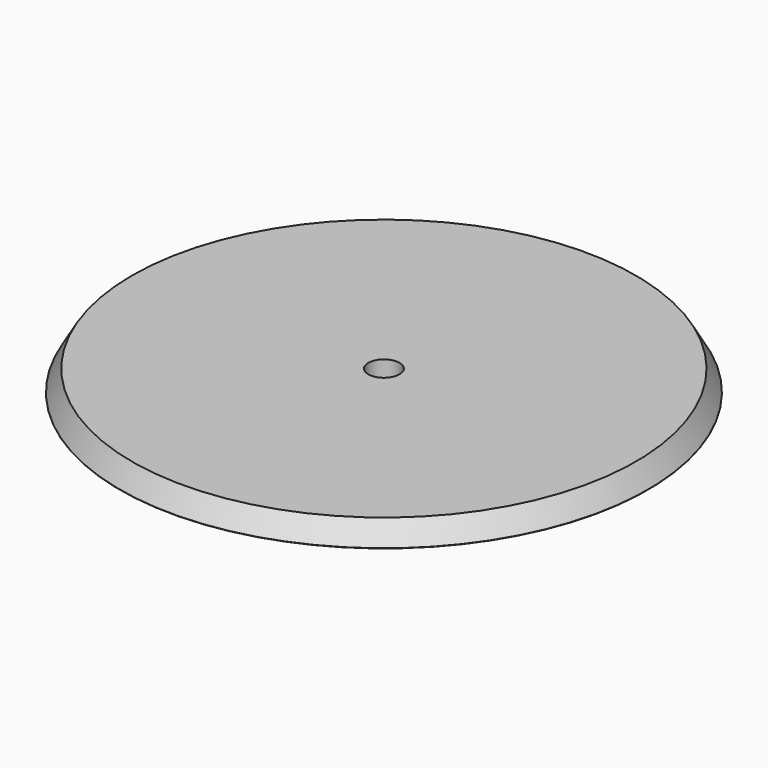
from build123d import *

# Parameters (mm, degrees)
F2_R     = 2.6
F3_DEPTH = 5.501
F4_SIZE2 = 3.464102
F4_SIZE  = 2


with BuildPart() as f1:
    # F0 (on Front) → F1 (revolve)
    with BuildSketch(Plane.XZ):
        with BuildLine():
            Line((-34, 0), (0, 0))
            Line((0, 0), (0, 5.5))
            Line((0, 5.5), (-44, 5.5))
            Line((-44, 5.5), (-44, 2))
            Line((-44, 2), (-41.529162, 2))
            ThreePointArc((-41.529162, 2), (-39.8, 4.3), (-38.070838, 2))
            Line((-38.070838, 2), (-34, 2))
            Line((-34, 2), (-34, 0))
        make_face()
    revolve(axis=Axis((0, 0, 2.75), (0, 0, -1)))

    # F2 (on face) → F3 (cut, through all)
    with BuildSketch(Plane.XY.offset(5.5)):
        Circle(F2_R)
    extrude(amount=-F3_DEPTH, mode=Mode.SUBTRACT)

    # F4
    f4_edges = [f1.edges().sort_by_distance(p)[0] for p in [
        (44, 0, 5.5),
    ]]
    chamfer(f4_edges, length=F4_SIZE, length2=F4_SIZE2)


solid = f1.part
